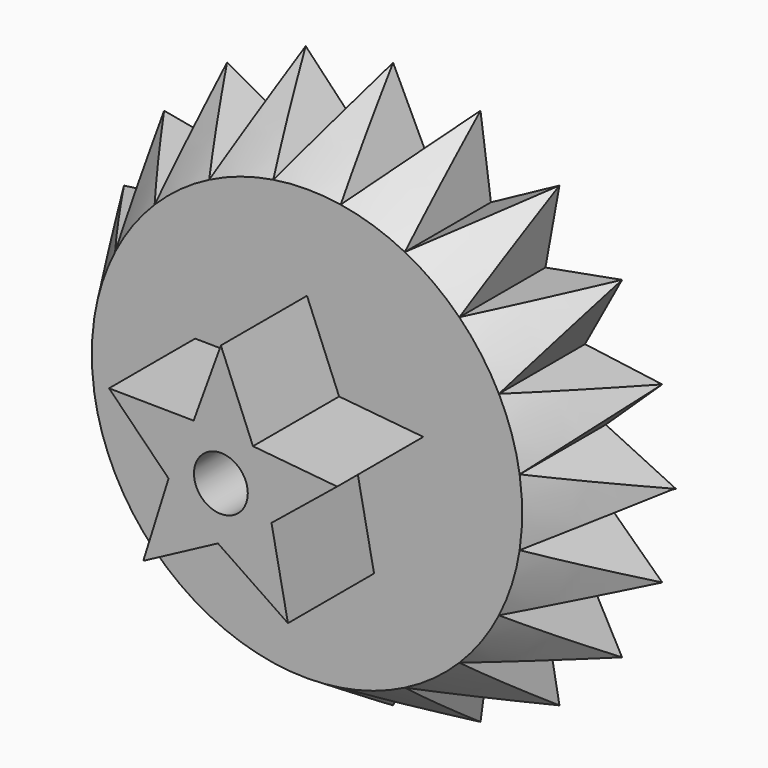
from build123d import *

# Parameters (mm, degrees)
F1_DEPTH = 6.35
F6_DEPTH = 12.7
F5_R     = 3.175
F7_DEPTH = 63.5


with BuildPart() as f1:
    # F0 (on Front) → F1 (new body, symmetric)
    with BuildSketch(Plane.XZ):
        with BuildLine():
            ThreePointArc((25.3999666944, -0.0411329817), (25.3999916736, -0.0205664976), (25.4, 0))
            ThreePointArc((25.4, 0), (25.3231458192, 1.9744077138), (25.0930483606, 3.9368672789))
            ThreePointArc((25.0930483606, 3.9368672789), (24.706334539, 5.8955096173), (24.1669838755, 7.8177292331))
            Line((24.1669838755, 7.8177292331), (0.0326778328, -0.0326249568))
            Line((0.0326778328, -0.0326249568), (0.0299255888, -0.0411329817))
            Line((0.0299255888, -0.0411329817), (25.3999666944, -0.0411329817))
        make_face()
        with BuildLine():
            ThreePointArc((25.0930483606, 3.9368672789), (25.3231458192, 1.9744077138), (25.4, 0))
            ThreePointArc((25.4, 0), (25.3999916736, -0.0205664976), (25.3999666944, -0.0411329817))
            Line((25.3999666944, -0.0411329817), (33.2082439851, -0.0411329817))
            Line((33.2082439851, -0.0411329817), (33.2939280097, 0))
            Line((33.2939280097, 0), (25.0930483606, 3.9368672789))
        make_face()
        with BuildLine():
            ThreePointArc((24.1669838755, 7.8177292331), (24.706334539, 5.8955096173), (25.0930483606, 3.9368672789))
            Line((25.0930483606, 3.9368672789), (31.7552785313, 10.2860330974))
            Line((31.7552785313, 10.2860330974), (24.1669838755, 7.8177292331))
        make_face()
        with BuildLine():
            Line((33.2082439851, -0.0411329817), (25.3999666944, -0.0411329817))
            ThreePointArc((25.3999666944, -0.0411329817), (25.3215388309, -1.994911335), (25.0930483606, -3.9368672789))
            Line((25.0930483606, -3.9368672789), (33.2082439851, -0.0411329817))
        make_face()
        with BuildLine():
            ThreePointArc((25.0930483606, -3.9368672789), (25.3215388309, -1.994911335), (25.3999666944, -0.0411329817))
            Line((25.3999666944, -0.0411329817), (0.0299255888, -0.0411329817))
            Line((0.0299255888, -0.0411329817), (0.0264556072, -0.0518597526))
            Line((0.0264556072, -0.0518597526), (24.1415369557, -7.895960576))
            ThreePointArc((24.1415369557, -7.895960576), (24.6967549032, -5.9355115407), (25.0930483606, -3.9368672789))
        make_face()
        with BuildLine():
            Line((0.0326778328, -0.0326249568), (24.1669838755, 7.8177292331))
            ThreePointArc((24.1669838755, 7.8177292331), (23.4783285027, 9.6916505673), (22.6446229644, 11.5056964501))
            ThreePointArc((22.6446229644, 11.5056964501), (21.6710179307, 13.2486596246), (20.5635283771, 14.9097719863))
            Line((20.5635283771, 14.9097719863), (0.0350181754, -0.0253902444))
            Line((0.0350181754, -0.0253902444), (0.0326778328, -0.0326249568))
        make_face()
        with BuildLine():
            ThreePointArc((22.6446229644, 11.5056964501), (23.4783285027, 9.6916505673), (24.1669838755, 7.8177292331))
            Line((24.1669838755, 7.8177292331), (31.7552785313, 10.2860330974))
            Line((31.7552785313, 10.2860330974), (22.6446229644, 11.5056964501))
        make_face()
        Polygon((33.3796120343, -0.0411329817), (33.2939280097, 0), (33.2082439851, -0.0411329817), align=None)
        with BuildLine():
            Line((31.7552785313, -10.2860330974), (25.0930483606, -3.9368672789))
            ThreePointArc((25.0930483606, -3.9368672789), (24.6967549032, -5.9355115407), (24.1415369557, -7.895960576))
            ThreePointArc((24.1415369557, -7.895960576), (23.4626029734, -9.7296588694), (22.6446229644, -11.5056964501))
            Line((22.6446229644, -11.5056964501), (31.7552785313, -10.2860330974))
        make_face()
        with BuildLine():
            ThreePointArc((20.5635283771, 14.9097719863), (21.6710179307, 13.2486596246), (22.6446229644, 11.5056964501))
            Line((22.6446229644, 11.5056964501), (27.0161574965, 19.6042705962))
            Line((27.0161574965, 19.6042705962), (20.5635283771, 14.9097719863))
        make_face()
        with BuildLine():
            ThreePointArc((22.6446229644, -11.5056964501), (23.4626029734, -9.7296588694), (24.1415369557, -7.895960576))
            Line((24.1415369557, -7.895960576), (0.0264556072, -0.0518597526))
            Line((0.0264556072, -0.0518597526), (0.0216754409, -0.0666367035))
            Line((0.0216754409, -0.0666367035), (20.5151305555, -14.9762952125))
            ThreePointArc((20.5151305555, -14.9762952125), (21.6495345196, -13.283736488), (22.6446229644, -11.5056964501))
        make_face()
        with BuildLine():
            Line((0.0350181754, -0.0253902444), (20.5635283771, 14.9097719863))
            ThreePointArc((20.5635283771, 14.9097719863), (19.3289964238, 16.4787711086), (17.9750490644, 17.9459636446))
            ThreePointArc((17.9750490644, 17.9459636446), (16.5100510465, 19.302285213), (14.9430531934, 20.5393563984))
            Line((14.9430531934, 20.5393563984), (0.0371289603, -0.0188651649))
            Line((0.0371289603, -0.0188651649), (0.0350181754, -0.0253902444))
        make_face()
        with BuildLine():
            ThreePointArc((17.9750490644, 17.9459636446), (19.3289964238, 16.4787711086), (20.5635283771, 14.9097719863))
            Line((20.5635283771, 14.9097719863), (27.0161574965, 19.6042705962))
            Line((27.0161574965, 19.6042705962), (17.9750490644, 17.9459636446))
        make_face()
        with BuildLine():
            Line((27.0161574965, -19.6042705962), (22.6446229644, -11.5056964501))
            ThreePointArc((22.6446229644, -11.5056964501), (21.6495345196, -13.283736488), (20.5151305555, -14.9762952125))
            ThreePointArc((20.5151305555, -14.9762952125), (19.302285213, -16.5100510465), (17.9750490644, -17.9459636446))
            Line((17.9750490644, -17.9459636446), (27.0161574965, -19.6042705962))
        make_face()
        with BuildLine():
            Line((20.5151305555, -14.9762952125), (0.0216754409, -0.0666367035))
            Line((0.0216754409, -0.0666367035), (0.0142195958, -0.0896849932))
            Line((0.0142195958, -0.0896849932), (14.8764516786, -20.5876464282))
            ThreePointArc((14.8764516786, -20.5876464282), (16.4787711086, -19.3289964238), (17.9750490644, -17.9459636446))
            ThreePointArc((17.9750490644, -17.9459636446), (19.302285213, -16.5100510465), (20.5151305555, -14.9762952125))
        make_face()
        with BuildLine():
            ThreePointArc((14.9430531934, 20.5393563984), (16.5100510465, 19.302285213), (17.9750490644, 17.9459636446))
            Line((17.9750490644, 17.9459636446), (19.6270962066, 26.9995793667))
            Line((19.6270962066, 26.9995793667), (14.9430531934, 20.5393563984))
        make_face()
        with BuildLine():
            Line((0.0294725544, -0.0294248649), (0.0371289603, -0.0188651649))
            Line((0.0371289603, -0.0188651649), (7.8568552068, 24.1542920877))
            ThreePointArc((7.8568552068, 24.1542920877), (5.9355115407, 24.6967549032), (3.9774980183, 25.0866400603))
            ThreePointArc((3.9774980183, 25.0866400603), (1.994911335, 25.3215388309), (0, 25.4))
            Line((0, 25.4), (-0.041143489, -0.006455033))
            Line((-0.041143489, -0.006455033), (-0.0371289603, -0.0188651649))
            Line((-0.0371289603, -0.0188651649), (-0.0294725544, -0.0294248649))
            Line((-0.0294725544, -0.0294248649), (-0.0189252671, -0.0370983612))
            Line((-0.0189252671, -0.0370983612), (-0.0065216527, -0.0411329817))
            Line((-0.0065216527, -0.0411329817), (0.0065216527, -0.0411329817))
            Line((0.0065216527, -0.0411329817), (0.0189252671, -0.0370983612))
            Line((0.0189252671, -0.0370983612), (0.0294725544, -0.0294248649))
        make_face()
        with BuildLine():
            Line((7.8568552068, 24.1542920877), (0.0371289603, -0.0188651649))
            Line((0.0371289603, -0.0188651649), (14.9430531934, 20.5393563984))
            ThreePointArc((14.9430531934, 20.5393563984), (13.283736488, 21.6495345196), (11.5423522634, 22.6259608465))
            ThreePointArc((11.5423522634, 22.6259608465), (9.7296588694, 23.4626029734), (7.8568552068, 24.1542920877))
        make_face()
        with BuildLine():
            Line((14.8764516786, -20.5876464282), (0.0142195958, -0.0896849932))
            Line((0.0142195958, -0.0896849932), (0, -0.133642098))
            Line((0, -0.133642098), (7.7785827575, -24.1796122857))
            ThreePointArc((7.7785827575, -24.1796122857), (9.6916505673, -23.4783285027), (11.5423522634, -22.6259608465))
            ThreePointArc((11.5423522634, -22.6259608465), (13.2486596246, -21.6710179307), (14.8764516786, -20.5876464282))
        make_face()
        with BuildLine():
            ThreePointArc((11.5423522634, 22.6259608465), (13.283736488, 21.6495345196), (14.9430531934, 20.5393563984))
            Line((14.9430531934, 20.5393563984), (19.6270962066, 26.9995793667))
            Line((19.6270962066, 26.9995793667), (11.5423522634, 22.6259608465))
        make_face()
        with BuildLine():
            Line((10.3128672742, 31.7465739895), (7.8568552068, 24.1542920877))
            ThreePointArc((7.8568552068, 24.1542920877), (9.7296588694, 23.4626029734), (11.5423522634, 22.6259608465))
            Line((11.5423522634, 22.6259608465), (10.3128672742, 31.7465739895))
        make_face()
        with BuildLine():
            ThreePointArc((3.9774980183, 25.0866400603), (5.9355115407, 24.6967549032), (7.8568552068, 24.1542920877))
            Line((7.8568552068, 24.1542920877), (10.3128672742, 31.7465739895))
            Line((10.3128672742, 31.7465739895), (3.9774980183, 25.0866400603))
        make_face()
        with BuildLine():
            Line((19.6270962066, -26.9995793667), (17.9750490644, -17.9459636446))
            ThreePointArc((17.9750490644, -17.9459636446), (16.4787711086, -19.3289964238), (14.8764516786, -20.5876464282))
            ThreePointArc((14.8764516786, -20.5876464282), (13.2486596246, -21.6710179307), (11.5423522634, -22.6259608465))
            Line((11.5423522634, -22.6259608465), (19.6270962066, -26.9995793667))
        make_face()
        with BuildLine():
            Line((7.7785827575, -24.1796122857), (0, -0.133642098))
            Line((0, -0.133642098), (-0.0415574978, -0.2621089903))
            Line((-0.0415574978, -0.2621089903), (-0.0822658556, -25.3998667778))
            ThreePointArc((-0.0822658556, -25.3998667778), (1.9539027981, -25.3247362051), (3.9774980183, -25.0866400603))
            ThreePointArc((3.9774980183, -25.0866400603), (5.8955096173, -24.706334539), (7.7785827575, -24.1796122857))
        make_face()
        with BuildLine():
            ThreePointArc((0, 25.4), (1.994911335, 25.3215388309), (3.9774980183, 25.0866400603))
            Line((3.9774980183, 25.0866400603), (0, 33.3796453399))
            Line((0, 33.3796453399), (0, 25.4))
        make_face()
        with BuildLine():
            Line((-7.7785827575, -24.1796122857), (-0.0415574978, -0.2621089903))
            Line((-0.0415574978, -0.2621089903), (-0.041338843, -0.1270878059))
            Line((-0.041338843, -0.1270878059), (-14.8764516786, -20.5876464282))
            ThreePointArc((-14.8764516786, -20.5876464282), (-13.2486596246, -21.6710179307), (-11.5423522634, -22.6259608465))
            ThreePointArc((-11.5423522634, -22.6259608465), (-9.6916505673, -23.4783285027), (-7.7785827575, -24.1796122857))
        make_face()
        with BuildLine():
            Line((-0.0822658556, -25.3998667778), (-0.0415574978, -0.2621089903))
            Line((-0.0415574978, -0.2621089903), (-7.7785827575, -24.1796122857))
            ThreePointArc((-7.7785827575, -24.1796122857), (-5.8955096173, -24.706334539), (-3.9774980183, -25.0866400603))
            ThreePointArc((-3.9774980183, -25.0866400603), (-2.0359146402, -25.3182750514), (-0.0822658556, -25.3998667778))
        make_face()
        with BuildLine():
            ThreePointArc((11.5423522634, -22.6259608465), (9.6916505673, -23.4783285027), (7.7785827575, -24.1796122857))
            ThreePointArc((7.7785827575, -24.1796122857), (5.8955096173, -24.706334539), (3.9774980183, -25.0866400603))
            Line((3.9774980183, -25.0866400603), (10.3128672742, -31.7465739895))
            Line((10.3128672742, -31.7465739895), (11.5423522634, -22.6259608465))
        make_face()
        with BuildLine():
            Line((-0.041143489, -0.006455033), (0, 25.4))
            ThreePointArc((0, 25.4), (-1.994911335, 25.3215388309), (-3.9774980183, 25.0866400603))
            ThreePointArc((-3.9774980183, 25.0866400603), (-5.9355115407, 24.6967549032), (-7.8568552068, 24.1542920877))
            Line((-7.8568552068, 24.1542920877), (-0.041143489, -0.006455033))
        make_face()
        with BuildLine():
            ThreePointArc((-3.9774980183, 25.0866400603), (-1.994911335, 25.3215388309), (0, 25.4))
            Line((0, 25.4), (0, 33.3796453399))
            Line((0, 33.3796453399), (-3.9774980183, 25.0866400603))
        make_face()
        with BuildLine():
            Line((-14.8764516786, -20.5876464282), (-0.041338843, -0.1270878059))
            Line((-0.041338843, -0.1270878059), (-0.0412640266, -0.08088804))
            Line((-0.0412640266, -0.08088804), (-20.5151305555, -14.9762952125))
            ThreePointArc((-20.5151305555, -14.9762952125), (-19.302285213, -16.5100510465), (-17.9750490644, -17.9459636446))
            ThreePointArc((-17.9750490644, -17.9459636446), (-16.4787711086, -19.3289964238), (-14.8764516786, -20.5876464282))
        make_face()
        with BuildLine():
            ThreePointArc((3.9774980183, -25.0866400603), (1.9539027981, -25.3247362051), (-0.0822658556, -25.3998667778))
            ThreePointArc((-0.0822658556, -25.3998667778), (-2.0359146402, -25.3182750514), (-3.9774980183, -25.0866400603))
            Line((-3.9774980183, -25.0866400603), (0, -33.3796453399))
            Line((0, -33.3796453399), (3.9774980183, -25.0866400603))
        make_face()
        with BuildLine():
            ThreePointArc((-3.9774980183, -25.0866400603), (-5.8955096173, -24.706334539), (-7.7785827575, -24.1796122857))
            ThreePointArc((-7.7785827575, -24.1796122857), (-9.6916505673, -23.4783285027), (-11.5423522634, -22.6259608465))
            Line((-11.5423522634, -22.6259608465), (-10.3128672794, -31.7465739878))
            Line((-10.3128672794, -31.7465739878), (-3.9774980183, -25.0866400603))
        make_face()
        with BuildLine():
            ThreePointArc((-7.8568552068, 24.1542920877), (-5.9355115407, 24.6967549032), (-3.9774980183, 25.0866400603))
            Line((-3.9774980183, 25.0866400603), (-10.3128672794, 31.7465739878))
            Line((-10.3128672794, 31.7465739878), (-7.8568552068, 24.1542920877))
        make_face()
        with BuildLine():
            Line((-0.0411545949, -0.0133130175), (-0.041143489, -0.006455033))
            Line((-0.041143489, -0.006455033), (-7.8568552068, 24.1542920877))
            ThreePointArc((-7.8568552068, 24.1542920877), (-9.7296588694, 23.4626029734), (-11.5423522634, 22.6259608465))
            ThreePointArc((-11.5423522634, 22.6259608465), (-13.283736488, 21.6495345196), (-14.9430531934, 20.5393563984))
            Line((-14.9430531934, 20.5393563984), (-0.0411545949, -0.0133130175))
        make_face()
        with BuildLine():
            Line((-20.5151305555, -14.9762952125), (-0.0412640266, -0.08088804))
            Line((-0.0412640266, -0.08088804), (-0.0412247977, -0.0566638425))
            Line((-0.0412247977, -0.0566638425), (-24.1415369557, -7.895960576))
            ThreePointArc((-24.1415369557, -7.895960576), (-23.4626029734, -9.7296588694), (-22.6446229644, -11.5056964501))
            ThreePointArc((-22.6446229644, -11.5056964501), (-21.6495345196, -13.283736488), (-20.5151305555, -14.9762952125))
        make_face()
        with BuildLine():
            ThreePointArc((-11.5423522634, -22.6259608465), (-13.2486596246, -21.6710179307), (-14.8764516786, -20.5876464282))
            ThreePointArc((-14.8764516786, -20.5876464282), (-16.4787711086, -19.3289964238), (-17.9750490644, -17.9459636446))
            Line((-17.9750490644, -17.9459636446), (-19.5937332182, -27.0236385527))
            Line((-19.5937332182, -27.0236385527), (-11.5423522634, -22.6259608465))
        make_face()
        with BuildLine():
            ThreePointArc((-11.5423522634, 22.6259608465), (-9.7296588694, 23.4626029734), (-7.8568552068, 24.1542920877))
            Line((-7.8568552068, 24.1542920877), (-10.3128672794, 31.7465739878))
            Line((-10.3128672794, 31.7465739878), (-11.5423522634, 22.6259608465))
        make_face()
        with BuildLine():
            Line((-0.0411669086, -0.02091684), (-0.0411545949, -0.0133130175))
            Line((-0.0411545949, -0.0133130175), (-14.9430531934, 20.5393563984))
            ThreePointArc((-14.9430531934, 20.5393563984), (-16.5100510465, 19.302285213), (-17.9750490644, 17.9459636446))
            ThreePointArc((-17.9750490644, 17.9459636446), (-19.3289964238, 16.4787711086), (-20.5635283771, 14.9097719863))
            Line((-20.5635283771, 14.9097719863), (-0.0411669086, -0.02091684))
        make_face()
        with BuildLine():
            Line((-24.1415369557, -7.895960576), (-0.0412247977, -0.0566638425))
            Line((-0.0412247977, -0.0566638425), (-0.0411996469, -0.0411329817))
            Line((-0.0411996469, -0.0411329817), (-25.3999666944, -0.0411329817))
            ThreePointArc((-25.3999666944, -0.0411329817), (-25.3215388309, -1.994911335), (-25.0930483606, -3.9368672789))
            ThreePointArc((-25.0930483606, -3.9368672789), (-24.6967549032, -5.9355115407), (-24.1415369557, -7.895960576))
        make_face()
        with BuildLine():
            ThreePointArc((-17.9750490644, -17.9459636446), (-19.302285213, -16.5100510465), (-20.5151305555, -14.9762952125))
            ThreePointArc((-20.5151305555, -14.9762952125), (-21.6495345196, -13.283736488), (-22.6446229644, -11.5056964501))
            Line((-22.6446229644, -11.5056964501), (-27.0161574965, -19.6042705962))
            Line((-27.0161574965, -19.6042705962), (-17.9750490644, -17.9459636446))
        make_face()
        with BuildLine():
            Line((-25.3999666944, -0.0411329817), (-0.0411996469, -0.0411329817))
            Line((-0.0411996469, -0.0411329817), (-0.0411813896, -0.0298589385))
            Line((-0.0411813896, -0.0298589385), (-24.1669838755, 7.8177292331))
            ThreePointArc((-24.1669838755, 7.8177292331), (-24.706334539, 5.8955096173), (-25.0930483606, 3.9368672789))
            ThreePointArc((-25.0930483606, 3.9368672789), (-25.3247362051, 1.9539027981), (-25.3999666944, -0.0411329817))
        make_face()
        with BuildLine():
            Line((-24.1669838755, 7.8177292331), (-0.0411813896, -0.0298589385))
            Line((-0.0411813896, -0.0298589385), (-0.0411669086, -0.02091684))
            Line((-0.0411669086, -0.02091684), (-20.5635283771, 14.9097719863))
            ThreePointArc((-20.5635283771, 14.9097719863), (-21.6710179307, 13.2486596246), (-22.6446229644, 11.5056964501))
            ThreePointArc((-22.6446229644, 11.5056964501), (-23.4783285027, 9.6916505673), (-24.1669838755, 7.8177292331))
        make_face()
        with BuildLine():
            ThreePointArc((-14.9430531934, 20.5393563984), (-13.283736488, 21.6495345196), (-11.5423522634, 22.6259608465))
            Line((-11.5423522634, 22.6259608465), (-19.5937332182, 27.0236385527))
            Line((-19.5937332182, 27.0236385527), (-14.9430531934, 20.5393563984))
        make_face()
        with BuildLine():
            ThreePointArc((-17.9750490644, 17.9459636446), (-16.5100510465, 19.302285213), (-14.9430531934, 20.5393563984))
            Line((-14.9430531934, 20.5393563984), (-19.5937332182, 27.0236385527))
            Line((-19.5937332182, 27.0236385527), (-17.9750490644, 17.9459636446))
        make_face()
        with BuildLine():
            ThreePointArc((-22.6446229644, -11.5056964501), (-23.4626029734, -9.7296588694), (-24.1415369557, -7.895960576))
            ThreePointArc((-24.1415369557, -7.895960576), (-24.6967549032, -5.9355115407), (-25.0930483606, -3.9368672789))
            Line((-25.0930483606, -3.9368672789), (-31.7552785313, -10.2860330974))
            Line((-31.7552785313, -10.2860330974), (-22.6446229644, -11.5056964501))
        make_face()
        with BuildLine():
            Line((-33.3795060187, 0), (-25.3999666944, -0.0411329817))
            ThreePointArc((-25.3999666944, -0.0411329817), (-25.3247362051, 1.9539027981), (-25.0930483606, 3.9368672789))
            Line((-25.0930483606, 3.9368672789), (-33.3795060187, 0))
        make_face()
        with BuildLine():
            ThreePointArc((-25.0930483606, -3.9368672789), (-25.3215388309, -1.994911335), (-25.3999666944, -0.0411329817))
            Line((-25.3999666944, -0.0411329817), (-33.3795060187, 0))
            Line((-33.3795060187, 0), (-25.0930483606, -3.9368672789))
        make_face()
        with BuildLine():
            Line((-31.7552785313, 10.2860330974), (-24.1669838755, 7.8177292331))
            ThreePointArc((-24.1669838755, 7.8177292331), (-23.4783285027, 9.6916505673), (-22.6446229644, 11.5056964501))
            Line((-22.6446229644, 11.5056964501), (-31.7552785313, 10.2860330974))
        make_face()
        with BuildLine():
            ThreePointArc((-25.0930483606, 3.9368672789), (-24.706334539, 5.8955096173), (-24.1669838755, 7.8177292331))
            Line((-24.1669838755, 7.8177292331), (-31.7552785313, 10.2860330974))
            Line((-31.7552785313, 10.2860330974), (-25.0930483606, 3.9368672789))
        make_face()
        with BuildLine():
            Line((-27.0161574965, 19.6042705962), (-20.5635283771, 14.9097719863))
            ThreePointArc((-20.5635283771, 14.9097719863), (-19.3289964238, 16.4787711086), (-17.9750490644, 17.9459636446))
            Line((-17.9750490644, 17.9459636446), (-27.0161574965, 19.6042705962))
        make_face()
        with BuildLine():
            ThreePointArc((-22.6446229644, 11.5056964501), (-21.6710179307, 13.2486596246), (-20.5635283771, 14.9097719863))
            Line((-20.5635283771, 14.9097719863), (-27.0161574965, 19.6042705962))
            Line((-27.0161574965, 19.6042705962), (-22.6446229644, 11.5056964501))
        make_face()
    extrude(amount=F1_DEPTH, both=True)

    # F2 (on Right) → F3 (revolve, cut)
    with BuildSketch(Plane.YZ):
        Polygon((-6.35, -33.3796453399), (0, -33.3796453399), (6.35, -33.3796453399), (-6.35, -25.4), align=None)
    revolve(axis=Axis((0, -3.175, 0), (0, -1, 0)), mode=Mode.SUBTRACT)

    # F4 (on face) → F6 (join)
    with BuildSketch(Plane.XZ.offset(6.35)):
        with BuildLine():
            ThreePointArc((5.9723219918, -2.1572830195), (6.2548678902, -1.095046883), (6.35, 0))
            ThreePointArc((6.35, 0), (6.282204895, 0.9254197195), (6.0802671946, 1.8310791469))
            Line((6.0802671946, 1.8310791469), (0, 0))
            Line((0, 0), (3.5065985725, -5.2939839867))
            ThreePointArc((3.5065985725, -5.2939839867), (4.9922146394, -3.9243207048), (5.9723219918, -2.1572830195))
        make_face()
        with BuildLine():
            ThreePointArc((6.0802671946, 1.8310791469), (6.282204895, 0.9254197195), (6.35, 0))
            ThreePointArc((6.35, 0), (6.2548678902, -1.095046883), (5.9723219918, -2.1572830195))
            Line((5.9723219918, -2.1572830195), (13.7209562945, 4.1320810653))
            Line((13.7209562945, 4.1320810653), (6.0802671946, 1.8310791469))
        make_face()
        with BuildLine():
            Line((0, 0), (6.0802671946, 1.8310791469))
            ThreePointArc((6.0802671946, 1.8310791469), (5.1971745773, 3.6485444239), (3.787819123, 5.0965602411))
            ThreePointArc((3.787819123, 5.0965602411), (1.994911335, 6.0285013698), (0, 6.35))
            Line((0, 6.35), (0, 0))
        make_face()
        with BuildLine():
            ThreePointArc((3.787819123, 5.0965602411), (5.1971745773, 3.6485444239), (6.0802671946, 1.8310791469))
            Line((6.0802671946, 1.8310791469), (13.7209562945, 4.1320810653))
            Line((13.7209562945, 4.1320810653), (3.787819123, 5.0965602411))
        make_face()
        with BuildLine():
            Line((7.9131202982, -11.9466004668), (5.9723219918, -2.1572830195))
            ThreePointArc((5.9723219918, -2.1572830195), (4.9922146394, -3.9243207048), (3.5065985725, -5.2939839867))
            Line((3.5065985725, -5.2939839867), (7.9131202982, -11.9466004668))
        make_face()
        with BuildLine():
            ThreePointArc((0, 6.35), (1.994911335, 6.0285013698), (3.787819123, 5.0965602411))
            Line((3.787819123, 5.0965602411), (0, 14.3296453399))
            Line((0, 14.3296453399), (0, 6.35))
        make_face()
        with BuildLine():
            Line((-5.8468902963, 2.4771705358), (0, 0))
            Line((0, 0), (0, 6.35))
            ThreePointArc((0, 6.35), (-1.6659063993, 6.1275815677), (-3.2151109751, 5.4759073602))
            ThreePointArc((-3.2151109751, 5.4759073602), (-4.7726378865, 4.188606881), (-5.8468902963, 2.4771705358))
        make_face()
        with BuildLine():
            Line((3.5065985725, -5.2939839867), (0, 0))
            Line((0, 0), (-4.0579492347, -4.8842141649))
            ThreePointArc((-4.0579492347, -4.8842141649), (-2.3180753259, -5.9117701903), (-0.3434744748, -6.3407038478))
            ThreePointArc((-0.3434744748, -6.3407038478), (1.6659063993, -6.1275815677), (3.5065985725, -5.2939839867))
        make_face()
        with BuildLine():
            Line((-4.0579492347, -4.8842141649), (0, 0))
            Line((0, 0), (-5.8468902963, 2.4771705358))
            ThreePointArc((-5.8468902963, 2.4771705358), (-6.3290900379, 0.5148973609), (-6.1704098495, -1.4995140175))
            ThreePointArc((-6.1704098495, -1.4995140175), (-5.3869175937, -3.3620854896), (-4.0579492347, -4.8842141649))
        make_face()
        with BuildLine():
            Line((7.9131202982, -11.9466004668), (3.5065985725, -5.2939839867))
            ThreePointArc((3.5065985725, -5.2939839867), (1.6659063993, -6.1275815677), (-0.3434744748, -6.3407038478))
            Line((-0.3434744748, -6.3407038478), (7.9131202982, -11.9466004668))
        make_face()
        with BuildLine():
            ThreePointArc((-3.2151109751, 5.4759073602), (-1.6659063993, 6.1275815677), (0, 6.35))
            Line((0, 6.35), (0, 14.3296453399))
            Line((0, 14.3296453399), (-3.2151109751, 5.4759073602))
        make_face()
        with BuildLine():
            Line((-9.1573186362, -11.0218987004), (-4.0579492347, -4.8842141649))
            ThreePointArc((-4.0579492347, -4.8842141649), (-5.3869175937, -3.3620854896), (-6.1704098495, -1.4995140175))
            Line((-6.1704098495, -1.4995140175), (-9.1573186362, -11.0218987004))
        make_face()
        with BuildLine():
            ThreePointArc((-0.3434744748, -6.3407038478), (-2.3180753259, -5.9117701903), (-4.0579492347, -4.8842141649))
            Line((-4.0579492347, -4.8842141649), (-9.1573186362, -11.0218987004))
            Line((-9.1573186362, -11.0218987004), (-0.3434744748, -6.3407038478))
        make_face()
        with BuildLine():
            Line((-13.1943093365, 5.5900748385), (-5.8468902963, 2.4771705358))
            ThreePointArc((-5.8468902963, 2.4771705358), (-4.7726378865, 4.188606881), (-3.2151109751, 5.4759073602))
            Line((-3.2151109751, 5.4759073602), (-13.1943093365, 5.5900748385))
        make_face()
        with BuildLine():
            ThreePointArc((-6.1704098495, -1.4995140175), (-6.3290900379, 0.5148973609), (-5.8468902963, 2.4771705358))
            Line((-5.8468902963, 2.4771705358), (-13.1943093365, 5.5900748385))
            Line((-13.1943093365, 5.5900748385), (-6.1704098495, -1.4995140175))
        make_face()
    extrude(amount=F6_DEPTH)

    # F5 (on Front) → F7 (cut, symmetric)
    with BuildSketch(Plane.XZ):
        Circle(F5_R)
    extrude(amount=-F7_DEPTH, both=True, mode=Mode.SUBTRACT)


solid = f1.part
